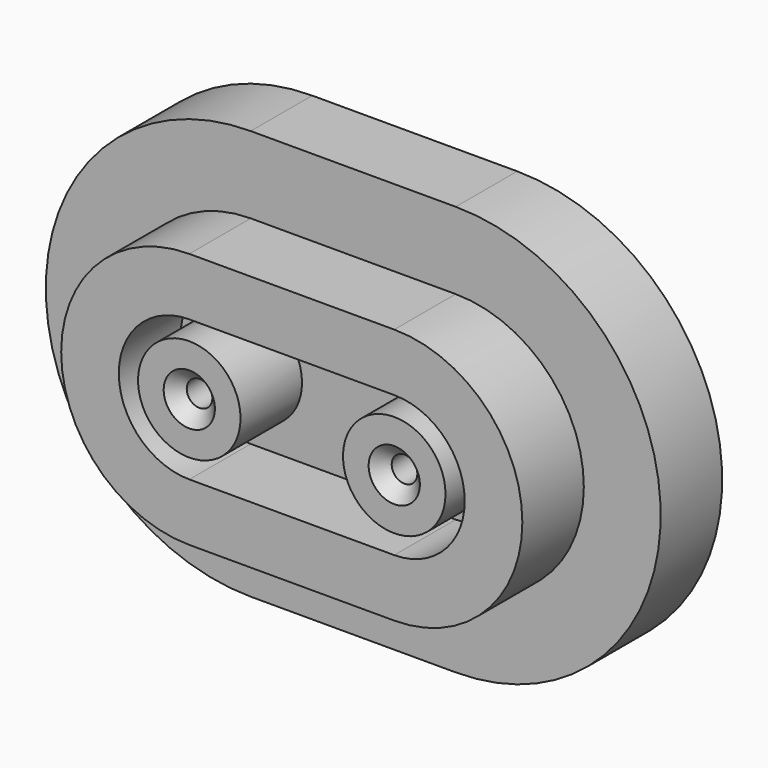
from build123d import *

# Parameters (mm, degrees)
F1_DEPTH       = 76.2
F2_START       = 25.4
F2_DEPTH       = 127
F3_START       = 25.4
F0_R           = 50.8
F3_DEPTH       = 50.8
F4_START       = 25.4
F0_R_2         = 25.4
F0_R_3         = 12.7
F4_DEPTH       = 127
F6_D           = 25.4
F6_CSINK_D     = 50.8
F6_CSINK_ANGLE = 90


with BuildPart() as f1:
    # F0 (on Front) → F1 (new body)
    with BuildSketch(Plane.XZ):
        with BuildLine():
            ThreePointArc((0, 203.2), (59.5159020629, 59.5159020629), (203.2, 0))
            Line((203.2, 0), (406.4, 0))
            ThreePointArc((406.4, 0), (550.0840979371, 59.5159020629), (609.6, 203.2))
            ThreePointArc((609.6, 203.2), (550.0840979371, 346.8840979371), (406.4, 406.4))
            Line((406.4, 406.4), (203.2, 406.4))
            ThreePointArc((203.2, 406.4), (59.5159020629, 346.8840979371), (0, 203.2))
        make_face()
        with BuildLine():
            Line((203.2, 330.2), (406.4, 330.2))
            ThreePointArc((406.4, 330.2), (533.4, 203.2), (406.4, 76.2))
            Line((406.4, 76.2), (203.2, 76.2))
            ThreePointArc((203.2, 76.2), (76.2, 203.2), (203.2, 330.2))
        make_face(mode=Mode.SUBTRACT)
    extrude(amount=F1_DEPTH)

    # F0 (on Front) → F2 (join)
    with BuildSketch(Plane.XZ.offset(F2_START)):
        with BuildLine():
            ThreePointArc((406.4, 76.2), (533.4, 203.2), (406.4, 330.2))
            Line((406.4, 330.2), (203.2, 330.2))
            ThreePointArc((203.2, 330.2), (76.2, 203.2), (203.2, 76.2))
            Line((203.2, 76.2), (406.4, 76.2))
        make_face()
        with BuildLine():
            Line((203.2, 304.8), (406.4, 304.8))
            ThreePointArc((406.4, 304.8), (508, 203.2), (406.4, 101.6))
            Line((406.4, 101.6), (203.2, 101.6))
            ThreePointArc((203.2, 101.6), (101.6, 203.2), (203.2, 304.8))
        make_face(mode=Mode.SUBTRACT)
        with BuildLine():
            ThreePointArc((406.4, 101.6), (508, 203.2), (406.4, 304.8))
            Line((406.4, 304.8), (203.2, 304.8))
            ThreePointArc((203.2, 304.8), (101.6, 203.2), (203.2, 101.6))
            Line((203.2, 101.6), (406.4, 101.6))
        make_face()
        with BuildLine():
            Line((406.4, 133.35), (203.2, 133.35))
            ThreePointArc((203.2, 133.35), (133.35, 203.2), (203.2, 273.05))
            Line((203.2, 273.05), (406.4, 273.05))
            ThreePointArc((406.4, 273.05), (476.25, 203.2), (406.4, 133.35))
        make_face(mode=Mode.SUBTRACT)
    extrude(amount=F2_DEPTH)

    # F0 (on Front) → F3 (join)
    with BuildSketch(Plane.XZ.offset(F3_START)):
        with BuildLine():
            ThreePointArc((203.2, 273.05), (133.35, 203.2), (203.2, 133.35))
            Line((203.2, 133.35), (406.4, 133.35))
            ThreePointArc((406.4, 133.35), (476.25, 203.2), (406.4, 273.05))
            Line((406.4, 273.05), (203.2, 273.05))
        make_face()
        with Locations((203.2, 203.2)):
            Circle(F0_R, mode=Mode.SUBTRACT)
        with Locations((406.4, 203.2)):
            Circle(F0_R, mode=Mode.SUBTRACT)
    extrude(amount=F3_DEPTH)

    # F0 (on Front) → F4 (join)
    with BuildSketch(Plane.XZ.offset(F4_START)):
        with Locations((406.4, 203.2)):
            Circle(F0_R)
        with Locations((406.4, 203.2)):
            Circle(F0_R_2, mode=Mode.SUBTRACT)
        with Locations((203.2, 203.2)):
            Circle(F0_R)
        with Locations((203.2, 203.2)):
            Circle(F0_R_2, mode=Mode.SUBTRACT)
        with Locations((203.2, 203.2)):
            Circle(F0_R_2)
        with Locations((203.2, 203.2)):
            Circle(F0_R_3, mode=Mode.SUBTRACT)
        with Locations((406.4, 203.2)):
            Circle(F0_R_2)
        with Locations((406.4, 203.2)):
            Circle(F0_R_3, mode=Mode.SUBTRACT)
        with Locations((203.2, 203.2)):
            Circle(F0_R_3)
        with Locations((406.4, 203.2)):
            Circle(F0_R_3)
    extrude(amount=F4_DEPTH)

    # F6 (through all)
    with Locations(Plane.XZ.offset(152.4)):
        with Locations((203.2, 203.2), (406.4, 203.2)):
            CounterSinkHole(F6_D / 2, F6_CSINK_D / 2, counter_sink_angle=F6_CSINK_ANGLE)


solid = f1.part
